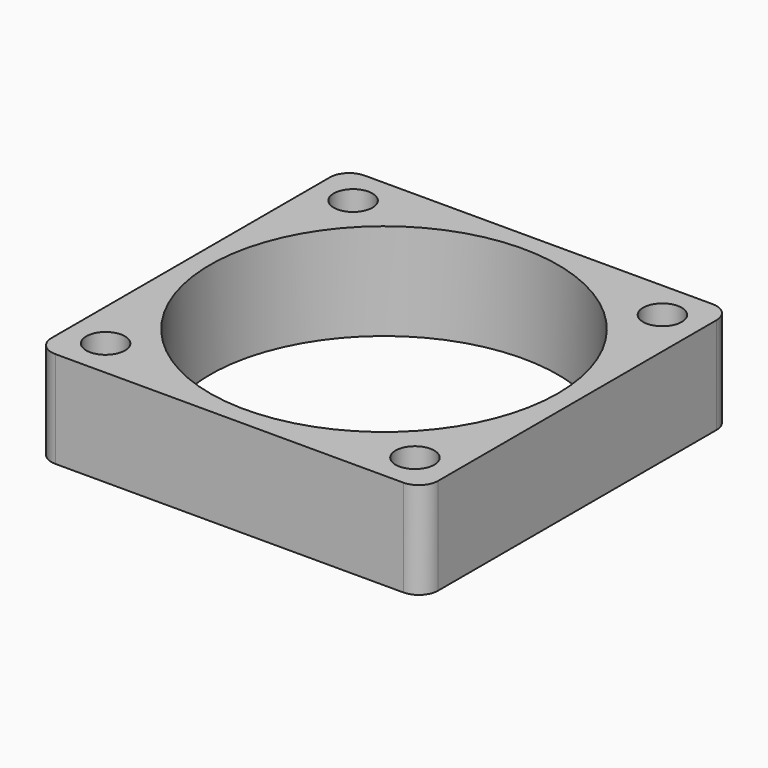
from build123d import *

# Parameters (mm, degrees)
SKETCH_W   = 40
SKETCH_H   = 40
SKETCH_R   = 18
SKETCH_R_2 = 2
PAD_DEPTH  = 10
FILLET_R   = 2


with BuildPart() as part:
    # Sketch → Pad (new body)
    with BuildSketch(Plane.XY):
        with Locations((20, 20)):
            Rectangle(SKETCH_W, SKETCH_H)
        with Locations((20, 20)):
            Circle(SKETCH_R, mode=Mode.SUBTRACT)
        with Locations((4, 36)):
            Circle(SKETCH_R_2, mode=Mode.SUBTRACT)
        with Locations((36, 36)):
            Circle(SKETCH_R_2, mode=Mode.SUBTRACT)
        with Locations((36, 4)):
            Circle(SKETCH_R_2, mode=Mode.SUBTRACT)
        with Locations((4, 4)):
            Circle(SKETCH_R_2, mode=Mode.SUBTRACT)
    extrude(amount=PAD_DEPTH)

    # Fillet
    fillet_edges = [part.edges().sort_by_distance(p)[0] for p in [
        (40, 0, 5),
        (0, 0, 5),
        (40, 40, 5),
        (0, 40, 5),
    ]]
    fillet(fillet_edges, radius=FILLET_R)


solid = part.part
